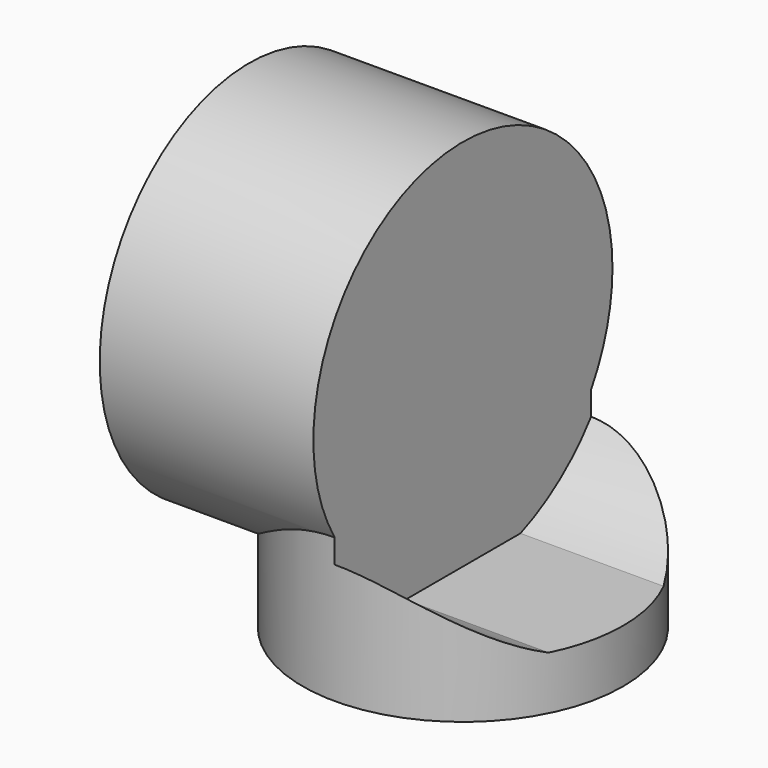
from build123d import *

# Parameters (mm, degrees)
SKETCH_R     = 30
PAD_DEPTH    = 30
SKETCH001_R  = 35
PAD001_DEPTH = 40
SKETCH002_R  = 37.5
POCKET_DEPTH = 35
PAD002_DEPTH = 10


with BuildPart() as part:
    # Sketch → Pad (new body)
    with BuildSketch(Plane.XY):
        Circle(SKETCH_R)
    extrude(amount=PAD_DEPTH)

    # Sketch001 → Pad001 (join)
    with BuildSketch(Plane.YZ):
        with Locations((0, 35)):
            Circle(SKETCH001_R)
    extrude(amount=-PAD001_DEPTH)

    # Sketch002 → Pocket (cut)
    with BuildSketch(Plane.YZ):
        with Locations((0, 35)):
            Circle(SKETCH002_R)
    extrude(amount=POCKET_DEPTH, mode=Mode.SUBTRACT)

    # Sketch → Pad002 (join)
    with BuildSketch(Plane.XY):
        Circle(SKETCH_R)
    extrude(amount=-PAD002_DEPTH)


solid = part.part
